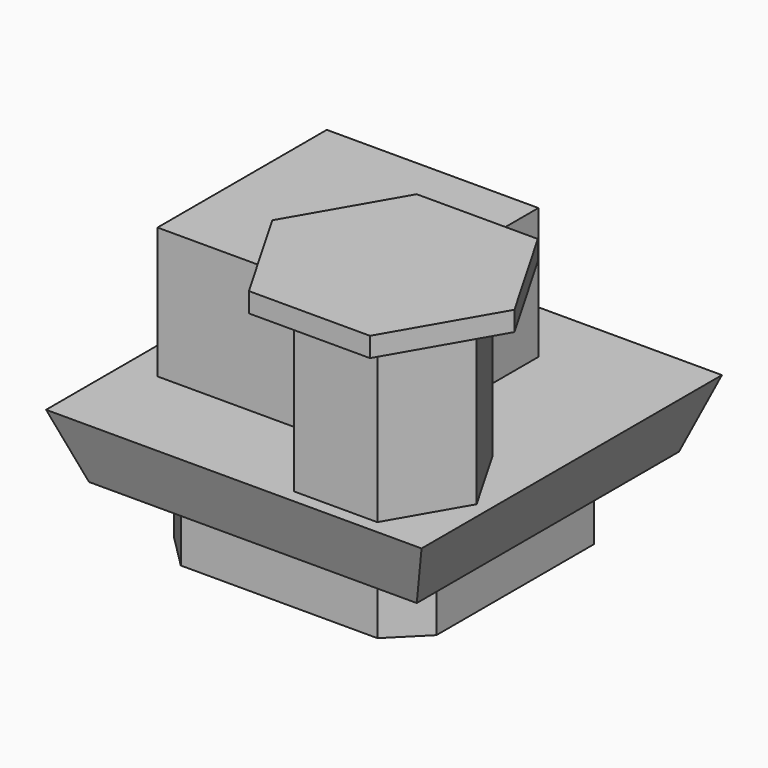
from build123d import *

# Parameters (mm, degrees)
F0_W      = 40
F0_H      = 40
F1_DEPTH  = 10
F2_SIZE   = 5
F3_W      = 50
F3_H      = 50
F4_DEPTH  = 10
F4_TAPER  = -20
F5_W      = 32.2794046853
F5_H      = 32.2794046853
F6_DEPTH  = 20
F8_DEPTH  = 25
F10_DEPTH = 3


with BuildPart() as f1:
    # F0 (on Top) → F1 (new body)
    with BuildSketch(Plane.XY):
        Rectangle(F0_W, F0_H)
    extrude(amount=F1_DEPTH)

    # F2
    f2_edges = [f1.edges().sort_by_distance(p)[0] for p in [
        (-20, -20, 5),
        (-20, 20, 5),
        (20, -20, 5),
        (20, 20, 5),
    ]]
    chamfer(f2_edges, length=F2_SIZE)

    # F3 (on face) → F4 (join)
    with BuildSketch(Plane.XY.offset(10)):
        Rectangle(F3_W, F3_H)
    extrude(amount=F4_DEPTH, taper=F4_TAPER)

    # F5 (on face) → F6 (join)
    with BuildSketch(Plane.XY.offset(20)):
        with Locations((-7.5, 2.5)):
            Rectangle(F5_W, F5_H)
    extrude(amount=F6_DEPTH)

    # F7 (on face) → F8 (join)
    with BuildSketch(Plane.XY.offset(20)):
        Polygon((20.2888493816, -26.6397023427), (26.6397023427, -15.6397023427), (20.2888493816, -4.6397023427), (7.5871434594, -4.6397023427), (1.2362904983, -15.6397023427), (7.5871434594, -26.6397023427), align=None)
    extrude(amount=F8_DEPTH)

    # F9 (on face) → F10 (join)
    with BuildSketch(Plane.XY.offset(45)):
        Polygon((23.1756007275, -31.6397023427), (32.4132050346, -15.6397023427), (23.1756007275, 0.3602976573), (4.7003921135, 0.3602976573), (-4.5372121936, -15.6397023427), (4.7003921135, -31.6397023427), align=None)
    extrude(amount=F10_DEPTH)


solid = f1.part
